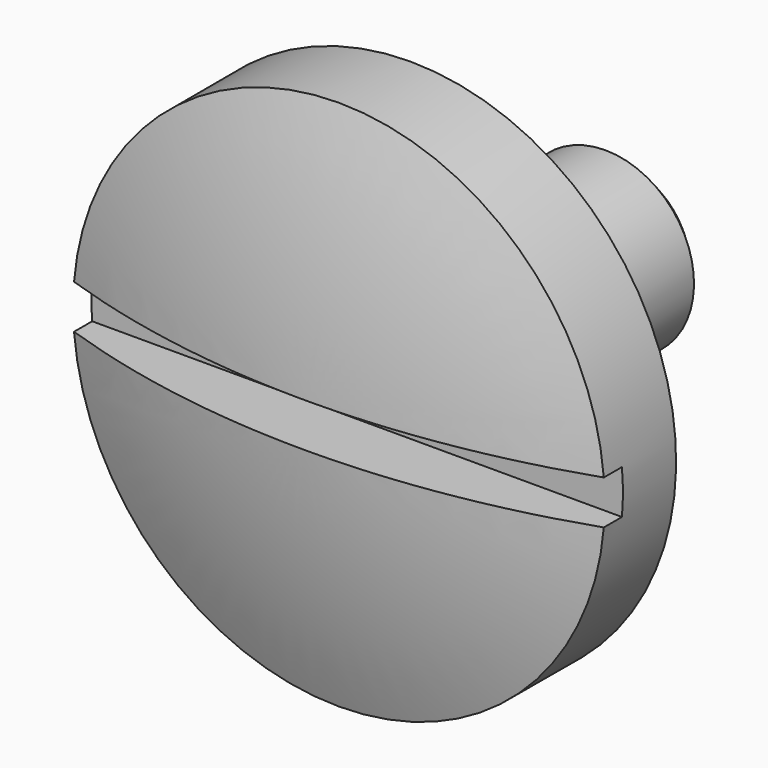
from build123d import *

# Parameters (mm, degrees)
F4_DEPTH = 2.3876
F5_SIZE2 = 0.762
F5_SIZE  = 0.762


with BuildPart() as f1:
    # F0 (on Right) → F1 (revolve)
    with BuildSketch(Plane.YZ):
        with BuildLine():
            ThreePointArc((-5.5626, 9.525), (-6.7410456972, 4.8271528886), (-7.1374, 0))
            Line((-7.1374, 0), (7.1374, 0))
            Line((7.1374, 0), (7.1374, 3.175))
            Line((7.1374, 3.175), (-2.3622, 3.175))
            Line((-2.3622, 3.175), (-2.3622, 9.525))
            Line((-2.3622, 9.525), (-5.5626, 9.525))
        make_face()
    revolve(axis=Axis((0, 0, 0), (0, 1, 0)))

    # F3 (on offset) → F4 (cut)
    with BuildSketch(Plane.XZ.offset(7.1374)):
        with BuildLine():
            Line((9.4923983397, 0.7874), (-9.4923983397, 0.7874))
            ThreePointArc((-9.4923983397, 0.7874), (-9.525, 0), (-9.4923983397, -0.7874))
            Line((-9.4923983397, -0.7874), (9.4923983397, -0.7874))
            ThreePointArc((9.4923983397, -0.7874), (9.525, 0), (9.4923983397, 0.7874))
        make_face()
    extrude(amount=-F4_DEPTH, mode=Mode.SUBTRACT)

    # F5
    f5_edges = [f1.edges().sort_by_distance(p)[0] for p in [
        (0, 7.1374, -3.175),
    ]]
    chamfer(f5_edges, length=F5_SIZE, length2=F5_SIZE2)


solid = f1.part
